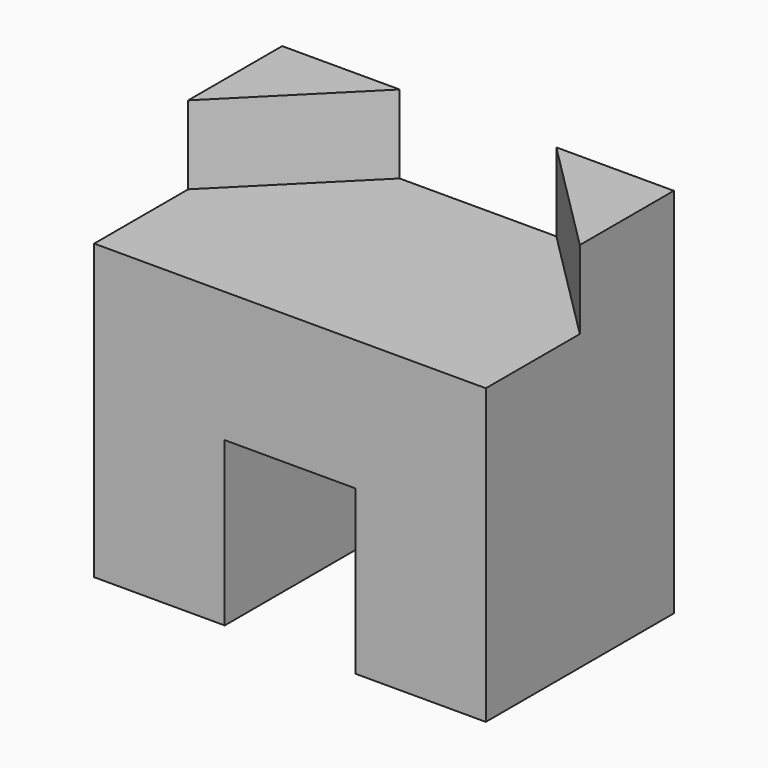
from build123d import *

# Parameters (mm, degrees)
F0_W     = 600
F0_H     = 570
F1_DEPTH = 360
F2_W     = 600
F2_H     = 180
F3_DEPTH = 120
F4_W     = 200
F4_H     = 250
F5_DEPTH = 360.001


with BuildPart() as f1:
    # F0 (on Front) → F1 (new body)
    with BuildSketch(Plane.XZ):
        Rectangle(F0_W, F0_H)
    extrude(amount=F1_DEPTH)

    # F2 (on face) → F3 (cut)
    with BuildSketch(Plane.XY.offset(285)):
        with Locations((0, -270)):
            Rectangle(F2_W, F2_H)
        Polygon((-120, 0), (-300, -180), (300, -180), (120, 0), align=None)
    extrude(amount=-F3_DEPTH, mode=Mode.SUBTRACT)

    # F4 (on face) → F5 (cut, through all)
    with BuildSketch(Plane.XZ.offset(360)):
        with Locations((0, -160)):
            Rectangle(F4_W, F4_H)
    extrude(amount=-F5_DEPTH, mode=Mode.SUBTRACT)


solid = f1.part
